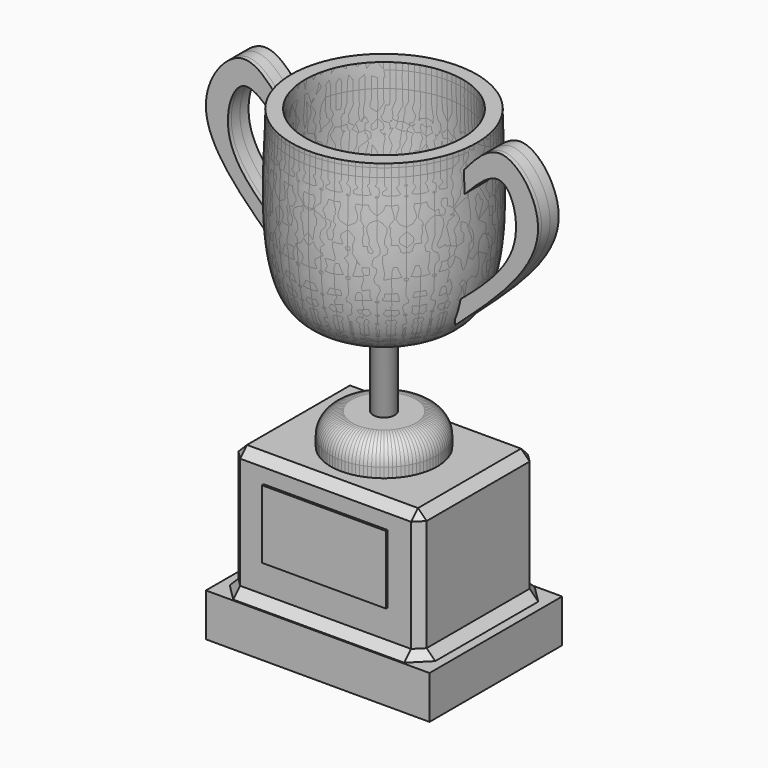
from build123d import *

# Parameters (mm, degrees)
F3_R           = 12.7
F4_W           = 111.0690385103
F4_H           = 86.1414074898
F4_R           = 31.4762555063
F5_DEPTH       = 76.2
F6_W           = 131.9364011288
F6_H           = 97.8214144707
F6_W_2         = 111.0690385103
F6_H_2         = 86.1414074898
F7_DEPTH       = 25.4
F8_W           = 73.2576549053
F8_H           = 40.2932986617
F9_DEPTH       = 1.27
F11_DEPTH      = 8.89
F12_DEPTH      = 6.35
F12_DEPTH_BACK = 6.35
F14_SIZE       = 5.08


with BuildPart() as f2:
    # F0 (on Front) → F2 (revolve)
    with BuildSketch(Plane.XZ):
        with BuildLine():
            Line((0, -30.0662980828), (0, 17.9998930544))
            add(Edge.make_bspline(
                [(-6.3807048233, 18.2508403565), (-4.1578039133, 18.2171306933), (-2.0155473447, 18.1539870369), (0, 17.9998930544)],
                knots=[0.9427719462, 0.9427719462, 0.9427719462, 0.9427719462, 1, 1, 1, 1], degree=3))
            Line((-6.3807048233, 18.2508403565), (-6.3807048233, -30.0662980828))
            Line((-6.3807048233, -30.0662980828), (0, -30.0662980828))
        make_face()
        with BuildLine():
            Line((0, 17.9998930544), (0, 26.8584806472))
            add(Edge.make_bspline(
                [(0, 26.8584806472), (-10.7174165335, 28.0242976575), (-55.3899250999, 20.7855479345), (-45.5426556435, 112.2926202987), (-46.5550757945, 127.0967870951)],
                knots=[0, 0, 0, 0, 0.3982042099, 1, 1, 1, 1], degree=3))
            Line((-46.5550757945, 127.0967870951), (-54.7236055136, 127.0967870951))
            add(Edge.make_bspline(
                [(-54.7236055136, 127.0967870951), (-54.3552484984, 108.8664074349), (-64.9717254937, 16.014901956), (-20.1327669291, 18.4593864867), (-6.3807048233, 18.2508403565)],
                knots=[0, 0, 0, 0, 0.588728387, 0.9427719462, 0.9427719462, 0.9427719462, 0.9427719462], degree=3))
            add(Edge.make_bspline(
                [(-6.3807048233, 18.2508403565), (-4.1578039133, 18.2171306933), (-2.0155473447, 18.1539870369), (0, 17.9998930544)],
                knots=[0.9427719462, 0.9427719462, 0.9427719462, 0.9427719462, 1, 1, 1, 1], degree=3))
        make_face()
        Polygon((0, -48.53374511), (0, -30.0662980828), (-6.3807048233, -30.0662980828), (-31.4762555063, -30.0662980828), (-31.4762555063, -48.53374511), align=None)
    revolve(axis=Axis((0, 0, 8.2931444049), (0, 0, -1)))

    # F3
    f3_edges = [f2.edges().sort_by_distance(p)[0] for p in [
        (31.476256, 0, -30.066298),
    ]]
    fillet(f3_edges, radius=F3_R)

    # F10 (on Front) → F11 (join)
    with BuildSketch(Plane.XZ):
        with BuildLine():
            add(Edge.make_bspline(
                [(52.1054454148, 113.9278411865), (60.0726491949, 123.53160756), (76.9022391533, 143.8182042862), (114.4948239804, 93.095048228), (73.4255879636, 56.1009089474), (48.9526242018, 34.056276083)],
                knots=[0, 0, 0, 0, 0.2664784344, 0.5628979637, 1, 1, 1, 1], degree=3))
            Line((52.1054454148, 113.9278411865), (52.1054454148, 101.3165414333))
            add(Edge.make_bspline(
                [(52.1054454148, 101.3165414333), (60.7819008479, 110.6301066091), (78.1798557469, 129.3055885646), (92.6241304393, 82.7394325238), (65.0028938819, 59.4816690998), (48.9526242018, 45.9669455886)],
                knots=[0, 0, 0, 0, 0.2941601741, 0.5898474881, 1, 1, 1, 1], degree=3))
            Line((48.9526242018, 45.9669455886), (48.9526242018, 34.056276083))
        make_face()
    extrude(amount=F11_DEPTH)

    # F12 (add, two sides): a face of the model
    f12_faces = [f2.faces().sort_by_distance(p)[0] for p in [
        (56.2462061742, 0, 111.105229239),
    ]]
    extrude(f12_faces, amount=-F12_DEPTH)
    extrude(f12_faces, amount=F12_DEPTH_BACK)


with BuildPart() as f5:
    # F4 (on face) → F5 (new body)
    with BuildSketch(Plane(origin=(0, 0, -48.53374511), x_dir=(1, 0, 0), z_dir=(0, 0, -1))):
        Rectangle(F4_W, F4_H)
        Circle(F4_R, mode=Mode.SUBTRACT)
        Circle(F4_R)
    extrude(amount=F5_DEPTH)

    # F6 (on face) → F7 (join)
    with BuildSketch(Plane(origin=(0, 0, -124.73374511), x_dir=(1, 0, 0), z_dir=(0, 0, -1))):
        Rectangle(F6_W, F6_H)
        Rectangle(F6_W_2, F6_H_2, mode=Mode.SUBTRACT)
        Rectangle(F6_W_2, F6_H_2)
    extrude(amount=F7_DEPTH)

    # F14
    f14_edges = [f5.edges().sort_by_distance(p)[0] for p in [
        (-55.534519, -43.070704, -86.633745),
        (-55.534519, 43.070704, -86.633745),
        (-55.534519, 0, -48.533745),
        (-55.534519, 0, -124.733745),
        (55.534519, 43.070704, -86.633745),
        (55.534519, -43.070704, -86.633745),
        (55.534519, 0, -48.533745),
        (55.534519, 0, -124.733745),
        (0, -43.070704, -48.533745),
        (0, -43.070704, -124.733745),
        (0, 43.070704, -48.533745),
        (0, 43.070704, -124.733745),
    ]]
    chamfer(f14_edges, length=F14_SIZE)


with BuildPart() as f9:
    # F8 (on face) → F9 (new body)
    with BuildSketch(Plane.XZ.offset(43.0707037449)):
        with Locations((0, -82.529194653)):
            Rectangle(F8_W, F8_H)
    extrude(amount=F9_DEPTH)


with BuildPart() as f13_1:
    # F13: instance of F2
    add(f2.part.mirror(Plane.YZ))


solid = Compound([f2.part, f5.part, f9.part, f13_1.part])
